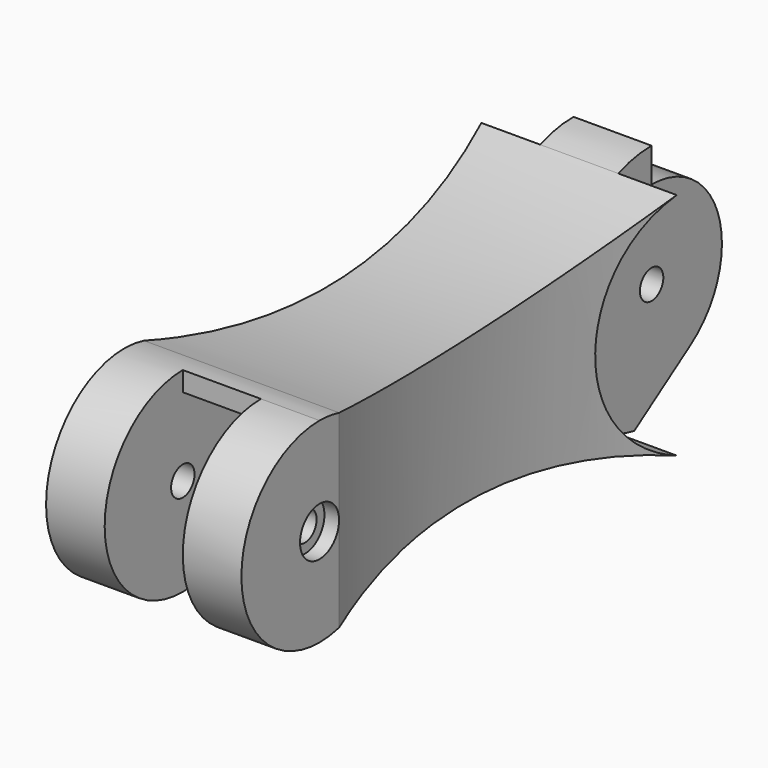
from build123d import *

# Parameters (mm, degrees)
F1_DEPTH  = 6
F3_DEPTH  = 8
F5_DEPTH  = 6
F6_R      = 12.5
F7_DEPTH  = 6
F8_R      = 12.5
F9_DEPTH  = 6
F11_DEPTH = 14.001
F12_R     = 1.5
F13_DEPTH = 20.001
F14_R     = 2.5
F15_DEPTH = 1.5
F16_R     = 2.5
F17_DEPTH = 1.5
F18_R     = 82.8644231172
F19_DEPTH = 12.5


with BuildPart() as f1:
    # F0 (on Right) → F1 (new body)
    with BuildSketch(Plane.YZ):
        with BuildLine():
            ThreePointArc((45.7146496628, 11.7424772722), (24.2728942701, 7.4219237759), (2.5168433046, 9.6780938092))
            ThreePointArc((2.5168433046, 9.6780938092), (-10, 0), (2.5168433046, -9.6780938092))
            ThreePointArc((2.5168433046, -9.6780938092), (24.2728942701, -7.4219237759), (45.7146496628, -11.7424772722))
            ThreePointArc((45.7146496628, -11.7424772722), (62.5, 0), (45.7146496628, 11.7424772722))
        make_face()
    extrude(amount=F1_DEPTH)

    # F2 (on face) → F3 (join)
    with BuildSketch(Plane.YZ.offset(6)):
        with BuildLine():
            ThreePointArc((45.7146496628, 11.7424772722), (24.2728942701, 7.4219237759), (2.5168433046, 9.6780938092))
            ThreePointArc((2.5168433046, 9.6780938092), (1.2686729105, 9.919196996), (0, 10))
            Line((0, 10), (0, 8))
            ThreePointArc((0, 8), (4.0630120127, 6.8914391374), (7, 3.8729833462))
            Line((7, 3.8729833462), (13.4120563723, -7.716117508))
            ThreePointArc((13.4120563723, -7.716117508), (29.7917342094, -7.8970456319), (45.7146496628, -11.7424772722))
            ThreePointArc((45.7146496628, -11.7424772722), (62.5, 0), (45.7146496628, 11.7424772722))
        make_face()
    extrude(amount=F3_DEPTH)

    # F4 (on face) → F5 (join)
    with BuildSketch(Plane.YZ.offset(14)):
        with BuildLine():
            ThreePointArc((2.5168433046, 9.6780938092), (1.2686729105, 9.919196996), (0, 10))
            ThreePointArc((0, 10), (-9.919196996, -1.2686729105), (2.5168433046, -9.6780938092))
            ThreePointArc((2.5168433046, -9.6780938092), (7.9270301673, -8.4893073841), (13.4120563723, -7.716117508))
            ThreePointArc((13.4120563723, -7.716117508), (29.7917342094, -7.8970456319), (45.7146496628, -11.7424772722))
            ThreePointArc((45.7146496628, -11.7424772722), (62.5, 0), (45.7146496628, 11.7424772722))
            ThreePointArc((45.7146496628, 11.7424772722), (24.2728942701, 7.4219237759), (2.5168433046, 9.6780938092))
        make_face()
    extrude(amount=F5_DEPTH)

    # F6 (on face) → F7 (cut)
    with BuildSketch(Plane.YZ.offset(20)):
        with Locations((50, 0)):
            Circle(F6_R)
    extrude(amount=-F7_DEPTH, mode=Mode.SUBTRACT)

    # F8 (on face) → F9 (cut)
    with BuildSketch(Plane(origin=(0, 0, 0), x_dir=(0, -1, 0), z_dir=(-1, 0, 0))):
        with Locations((-50, 0)):
            Circle(F8_R)
    extrude(amount=-F9_DEPTH, mode=Mode.SUBTRACT)

    # F10 (on face) → F11 (cut, through all)
    with BuildSketch(Plane.YZ.offset(14)):
        with BuildLine():
            Line((55, -7.4833147735), (47.7871856146, -12.3025790994))
            ThreePointArc((47.7871856146, -12.3025790994), (62.4505469507, -1.1108017956), (50, 12.5))
            Line((50, 12.5), (50, 9))
            ThreePointArc((50, 9), (58.6124860802, 2.6124860802), (55, -7.4833147735))
        make_face()
    extrude(amount=-F11_DEPTH, mode=Mode.SUBTRACT)

    # F12 (on face) → F13 (cut, through all)
    with BuildSketch(Plane.YZ.offset(20)):
        Circle(F12_R)
        with Locations((50, 0)):
            Circle(F12_R)
    extrude(amount=-F13_DEPTH, mode=Mode.SUBTRACT)

    # F14 (on face) → F15 (cut)
    with BuildSketch(Plane.YZ.offset(20)):
        Circle(F14_R)
    extrude(amount=-F15_DEPTH, mode=Mode.SUBTRACT)

    # F16 (on face) → F17 (cut)
    with BuildSketch(Plane(origin=(0, 0, 0), x_dir=(0, -1, 0), z_dir=(-1, 0, 0))):
        Circle(F16_R)
    extrude(amount=-F17_DEPTH, mode=Mode.SUBTRACT)

    # F18 (on Top) → F19 (cut, symmetric)
    with BuildSketch(Plane.XY):
        with Locations((-80, 24.1157464837)):
            Circle(F18_R)
        with Locations((100, 24.1157464837)):
            Circle(F18_R)
    extrude(amount=F19_DEPTH, both=True, mode=Mode.SUBTRACT)


solid = f1.part
